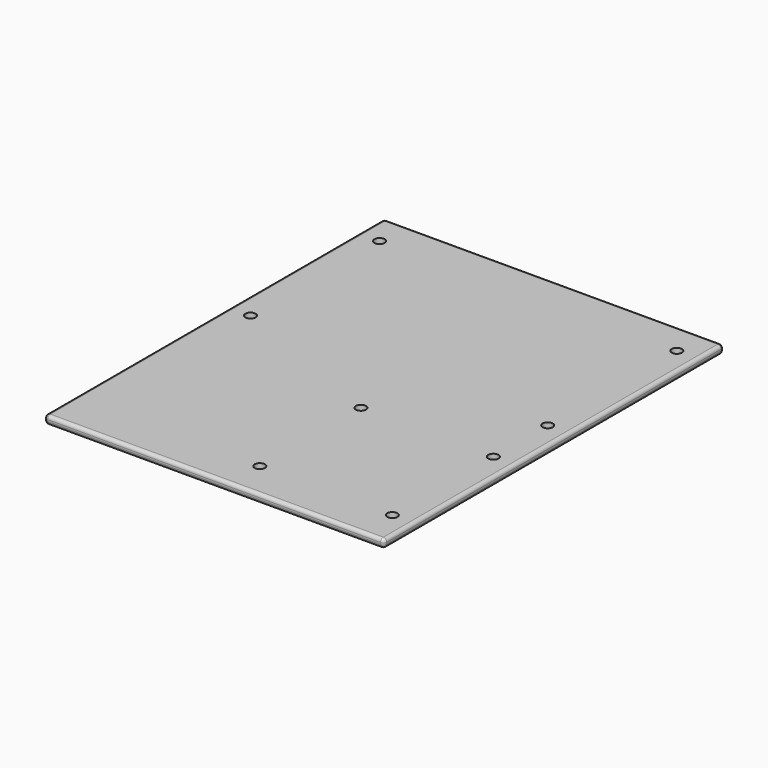
from build123d import *

# Parameters (mm, degrees)
SKETCH_W  = 100
SKETCH_H  = 125
SKETCH_R  = 1.5
PAD_DEPTH = 2.5
FILLET_R  = 1


with BuildPart() as part:
    # Sketch → Pad (new body)
    with BuildSketch(Plane.XY):
        Rectangle(SKETCH_W, SKETCH_H)
        with Locations((-43.75, 53.059436)):
            Circle(SKETCH_R, mode=Mode.SUBTRACT)
        with Locations((43.75, 53.059436)):
            Circle(SKETCH_R, mode=Mode.SUBTRACT)
        with Locations((43.75, 5.559436)):
            Circle(SKETCH_R, mode=Mode.SUBTRACT)
        with Locations((43.75, -14.440564)):
            Circle(SKETCH_R, mode=Mode.SUBTRACT)
        with Locations((4.75, -14.440564)):
            Circle(SKETCH_R, mode=Mode.SUBTRACT)
        with Locations((43.75, -51.640564)):
            Circle(SKETCH_R, mode=Mode.SUBTRACT)
        with Locations((-43.75, 5.559436)):
            Circle(SKETCH_R, mode=Mode.SUBTRACT)
        with Locations((4.75, -51.640564)):
            Circle(SKETCH_R, mode=Mode.SUBTRACT)
    extrude(amount=PAD_DEPTH)

    # Fillet
    fillet_edges = [part.edges().sort_by_distance(p)[0] for p in [
        (50, 62.5, 1.25),
        (50, -62.5, 1.25),
        (50, 0, 0),
        (50, 0, 2.5),
        (-50, 62.5, 1.25),
        (0, 62.5, 0),
        (0, 62.5, 2.5),
        (-50, -62.5, 1.25),
        (-50, 0, 0),
        (-50, 0, 2.5),
        (0, -62.5, 0),
        (0, -62.5, 2.5),
    ]]
    fillet(fillet_edges, radius=FILLET_R)


solid = part.part
